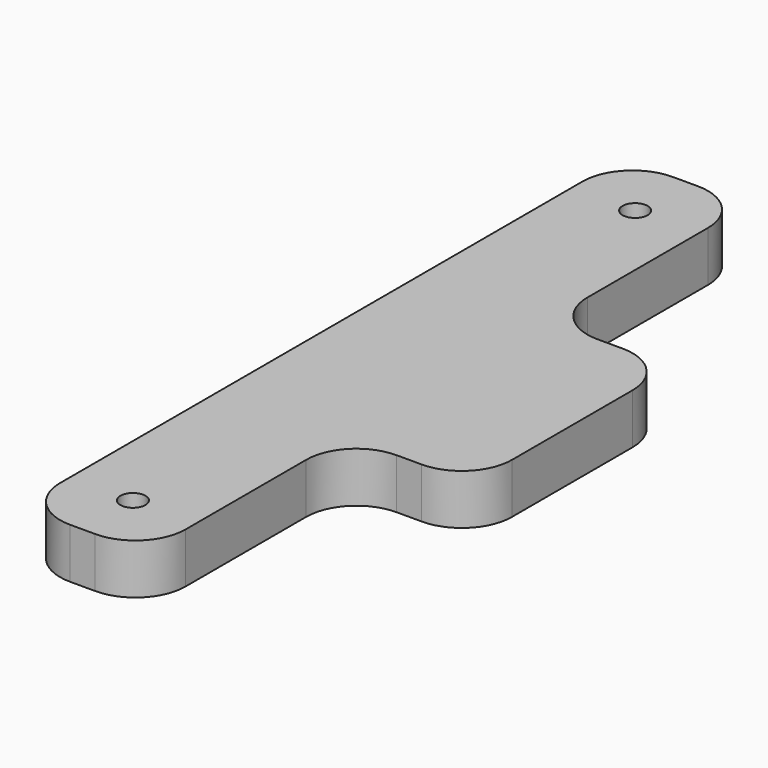
from build123d import *

# Parameters (mm, degrees)
CYLINDER005_R     = 1
CYLINDER005_DEPTH = 20
ARRAY005_Y_COUNT  = 2
ARRAY005_Y_PITCH  = 50
BOX005_W          = 20
BOX005_H          = 20
BOX005_DEPTH      = 4
BOX004_W          = 10
BOX004_H          = 60
BOX004_DEPTH      = 4
FILLET_R          = 4
FILLET001_R       = 4


with BuildPart() as ear_screw_hole_fusion_array:
    # Cylinder005 → Cylinder005 (new body)
    with BuildSketch(Plane.XY.offset(40)):
        Circle(CYLINDER005_R)
    extrude(amount=CYLINDER005_DEPTH)

    # Array005 Y: ear screw hole fusion array ×2


with BuildPart() as ear_screw_hole_fusion_array_1:
    add(ear_screw_hole_fusion_array.part)
    with Locations(*[(0, i * ARRAY005_Y_PITCH, 0) for i in range(1, ARRAY005_Y_COUNT)]):
        add(ear_screw_hole_fusion_array.part)


with BuildPart() as ear_screw_hole_fusion_array_2:
    # Array005 placement: moved
    add(ear_screw_hole_fusion_array_1.part.moved(Location((5, 5, -40))))


with BuildPart() as mount_plate:
    # Box005 → Box005 (new body)
    with BuildSketch(Plane(origin=(0, 20, 0), x_dir=(1, 0, 0), z_dir=(0, 0, 1))):
        with Locations((10, 10)):
            Rectangle(BOX005_W, BOX005_H)
    extrude(amount=BOX005_DEPTH)


with BuildPart() as ear_mount_cut:
    # Box004 → Box004 (new body)
    with BuildSketch(Plane.XY):
        with Locations((5, 30)):
            Rectangle(BOX004_W, BOX004_H)
    extrude(amount=BOX004_DEPTH)

    # Fillet
    fillet_edges = [ear_mount_cut.edges().sort_by_distance(p)[0] for p in [
        (0, 0, 2),
        (0, 60, 2),
        (10, 0, 2),
        (10, 60, 2),
    ]]
    fillet(fillet_edges, radius=FILLET_R)

    # Fusion001: union mount plate
    add(mount_plate.part)

    # Fillet001
    fillet001_edges = [ear_mount_cut.edges().sort_by_distance(p)[0] for p in [
        (10, 20, 2),
        (10, 40, 2),
        (20, 40, 2),
        (20, 20, 2),
    ]]
    fillet(fillet001_edges, radius=FILLET001_R)

    # Cut023015002: cut ear screw hole fusion array
    add(ear_screw_hole_fusion_array_2.part, mode=Mode.SUBTRACT)


solid = ear_mount_cut.part
